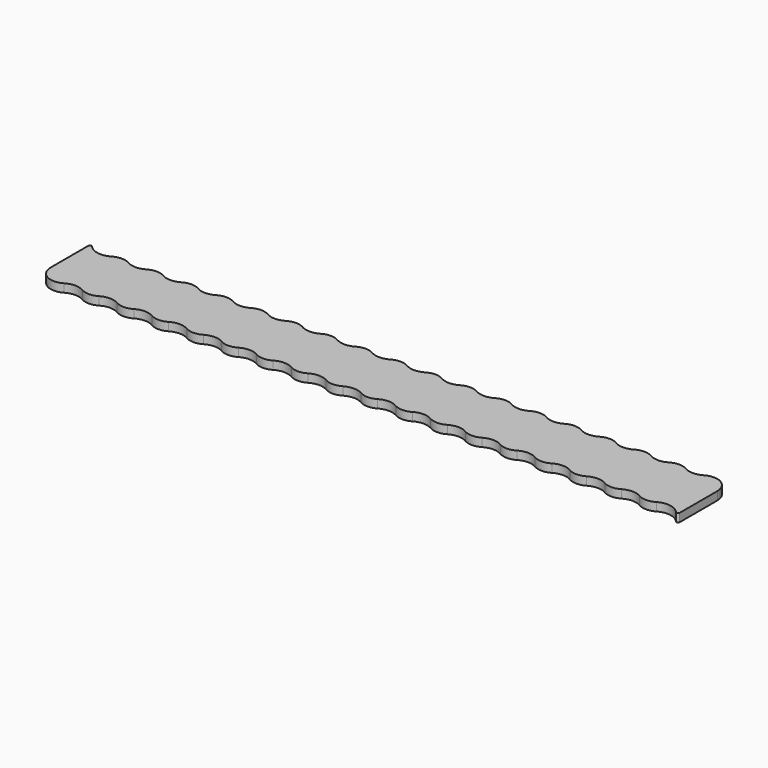
from build123d import *

# Parameters (mm, degrees)
F1_DEPTH = 5
F2_R     = 1


with BuildPart() as f1:
    # F0 (on Top) → F1 (new body)
    with BuildSketch(Plane.XY):
        with BuildLine():
            ThreePointArc((-81.970153, -8.637789), (-78.337442, -4.980607), (-77.008863, 0))
            ThreePointArc((-77.008863, 0), (-87.008863, 10), (-97.008863, 0))
            ThreePointArc((-97.008863, 0), (-91.989471, -8.671422), (-81.970153, -8.637789))
        make_face()
        with BuildLine():
            ThreePointArc((-97.008863, 0), (-87.008863, 10), (-77.008863, 0))
            ThreePointArc((-77.008863, 0), (-78.337442, -4.980607), (-81.970153, -8.637789))
            ThreePointArc((-81.970153, -8.637789), (-76.508863, -7.161334), (-71.047574, -8.637789))
            ThreePointArc((-71.047574, -8.637789), (-70.989471, 8.671422), (-56.008863, 0))
            ThreePointArc((-56.008863, 0), (-57.337442, -4.980607), (-60.970153, -8.637789))
            ThreePointArc((-60.970153, -8.637789), (-55.508863, -7.161334), (-50.047574, -8.637789))
            ThreePointArc((-50.047574, -8.637789), (-49.989471, 8.671422), (-35.008863, 0))
            ThreePointArc((-35.008863, 0), (-36.337442, -4.980607), (-39.970153, -8.637789))
            ThreePointArc((-39.970153, -8.637789), (-34.508863, -7.161334), (-29.047574, -8.637789))
            ThreePointArc((-29.047574, -8.637789), (-28.989471, 8.671422), (-14.008863, 0))
            ThreePointArc((-14.008863, 0), (-15.337442, -4.980607), (-18.970153, -8.637789))
            ThreePointArc((-18.970153, -8.637789), (-13.508863, -7.161334), (-8.047574, -8.637789))
            ThreePointArc((-8.047574, -8.637789), (-7.989471, 8.671422), (6.991137, 0))
            ThreePointArc((6.991137, 0), (5.662558, -4.980607), (2.029847, -8.637789))
            ThreePointArc((2.029847, -8.637789), (7.491137, -7.161334), (12.952426, -8.637789))
            ThreePointArc((12.952426, -8.637789), (13.010529, 8.671422), (27.991137, 0))
            ThreePointArc((27.991137, 0), (26.662558, -4.980607), (23.029847, -8.637789))
            ThreePointArc((23.029847, -8.637789), (28.491137, -7.161334), (33.952426, -8.637789))
            ThreePointArc((33.952426, -8.637789), (34.010529, 8.671422), (48.991137, 0))
            ThreePointArc((48.991137, 0), (47.662558, -4.980607), (44.029847, -8.637789))
            ThreePointArc((44.029847, -8.637789), (49.491137, -7.161334), (54.952426, -8.637789))
            ThreePointArc((54.952426, -8.637789), (55.010529, 8.671422), (69.991137, 0))
            ThreePointArc((69.991137, 0), (68.662558, -4.980607), (65.029847, -8.637789))
            ThreePointArc((65.029847, -8.637789), (70.491137, -7.161334), (75.952426, -8.637789))
            ThreePointArc((75.952426, -8.637789), (76.010529, 8.671422), (90.991137, 0))
            ThreePointArc((90.991137, 0), (89.662558, -4.980607), (86.029847, -8.637789))
            ThreePointArc((86.029847, -8.637789), (91.491137, -7.161334), (96.952426, -8.637789))
            ThreePointArc((96.952426, -8.637789), (97.010529, 8.671422), (111.991137, 0))
            ThreePointArc((111.991137, 0), (110.662558, -4.980607), (107.029847, -8.637789))
            ThreePointArc((107.029847, -8.637789), (112.491137, -7.161334), (117.952426, -8.637789))
            ThreePointArc((117.952426, -8.637789), (118.010529, 8.671422), (132.991137, 0))
            ThreePointArc((132.991137, 0), (131.662558, -4.980607), (128.029847, -8.637789))
            ThreePointArc((128.029847, -8.637789), (133.491137, -7.161334), (138.952426, -8.637789))
            ThreePointArc((138.952426, -8.637789), (139.010529, 8.671422), (153.991137, 0))
            ThreePointArc((153.991137, 0), (152.662558, -4.980607), (149.029847, -8.637789))
            ThreePointArc((149.029847, -8.637789), (154.491137, -7.161334), (159.952426, -8.637789))
            ThreePointArc((159.952426, -8.637789), (160.010529, 8.671422), (174.991137, 0))
            ThreePointArc((174.991137, 0), (173.662558, -4.980607), (170.029847, -8.637789))
            ThreePointArc((170.029847, -8.637789), (175.491137, -7.161334), (180.952426, -8.637789))
            ThreePointArc((180.952426, -8.637789), (181.010529, 8.671422), (195.991137, 0))
            ThreePointArc((195.991137, 0), (194.662558, -4.980607), (191.029847, -8.637789))
            ThreePointArc((191.029847, -8.637789), (196.491137, -7.161334), (201.952426, -8.637789))
            ThreePointArc((201.952426, -8.637789), (202.010529, 8.671422), (216.991137, 0))
            ThreePointArc((216.991137, 0), (215.662558, -4.980607), (212.029847, -8.637789))
            ThreePointArc((212.029847, -8.637789), (217.491137, -7.161334), (222.952426, -8.637789))
            ThreePointArc((222.952426, -8.637789), (223.010529, 8.671422), (237.991137, 0))
            ThreePointArc((237.991137, 0), (236.662558, -4.980607), (233.029847, -8.637789))
            ThreePointArc((233.029847, -8.637789), (238.491137, -7.161334), (243.952426, -8.637789))
            ThreePointArc((243.952426, -8.637789), (244.010529, 8.671422), (258.991137, 0))
            ThreePointArc((258.991137, 0), (257.662558, -4.980607), (254.029847, -8.637789))
            ThreePointArc((254.029847, -8.637789), (259.491137, -7.161334), (264.952426, -8.637789))
            ThreePointArc((264.952426, -8.637789), (265.010529, 8.671422), (279.991137, 0))
            ThreePointArc((279.991137, 0), (278.662558, -4.980607), (275.029847, -8.637789))
            ThreePointArc((275.029847, -8.637789), (283.935331, -7.723123), (290.491137, -13.819488))
            Line((290.491137, -13.819488), (290.491137, 18))
            ThreePointArc((290.491137, 18), (275.510529, 9.328578), (275.452426, 26.637789))
            ThreePointArc((275.452426, 26.637789), (269.991137, 25.161334), (264.529847, 26.637789))
            ThreePointArc((264.529847, 26.637789), (268.162558, 22.980607), (269.491137, 18))
            ThreePointArc((269.491137, 18), (254.510529, 9.328578), (254.452426, 26.637789))
            ThreePointArc((254.452426, 26.637789), (248.991137, 25.161334), (243.529847, 26.637789))
            ThreePointArc((243.529847, 26.637789), (247.162558, 22.980607), (248.491137, 18))
            ThreePointArc((248.491137, 18), (233.510529, 9.328578), (233.452426, 26.637789))
            ThreePointArc((233.452426, 26.637789), (227.991137, 25.161334), (222.529847, 26.637789))
            ThreePointArc((222.529847, 26.637789), (226.162558, 22.980607), (227.491137, 18))
            ThreePointArc((227.491137, 18), (212.510529, 9.328578), (212.452426, 26.637789))
            ThreePointArc((212.452426, 26.637789), (206.991137, 25.161334), (201.529847, 26.637789))
            ThreePointArc((201.529847, 26.637789), (205.162558, 22.980607), (206.491137, 18))
            ThreePointArc((206.491137, 18), (191.510529, 9.328578), (191.452426, 26.637789))
            ThreePointArc((191.452426, 26.637789), (185.991137, 25.161334), (180.529847, 26.637789))
            ThreePointArc((180.529847, 26.637789), (184.162558, 22.980607), (185.491137, 18))
            ThreePointArc((185.491137, 18), (170.510529, 9.328578), (170.452426, 26.637789))
            ThreePointArc((170.452426, 26.637789), (164.991137, 25.161334), (159.529847, 26.637789))
            ThreePointArc((159.529847, 26.637789), (163.162558, 22.980607), (164.491137, 18))
            ThreePointArc((164.491137, 18), (149.510529, 9.328578), (149.452426, 26.637789))
            ThreePointArc((149.452426, 26.637789), (143.991137, 25.161334), (138.529847, 26.637789))
            ThreePointArc((138.529847, 26.637789), (142.162558, 22.980607), (143.491137, 18))
            ThreePointArc((143.491137, 18), (128.510529, 9.328578), (128.452426, 26.637789))
            ThreePointArc((128.452426, 26.637789), (122.991137, 25.161334), (117.529847, 26.637789))
            ThreePointArc((117.529847, 26.637789), (121.162558, 22.980607), (122.491137, 18))
            ThreePointArc((122.491137, 18), (107.510529, 9.328578), (107.452426, 26.637789))
            ThreePointArc((107.452426, 26.637789), (101.991137, 25.161334), (96.529847, 26.637789))
            ThreePointArc((96.529847, 26.637789), (100.162558, 22.980607), (101.491137, 18))
            ThreePointArc((101.491137, 18), (86.510529, 9.328578), (86.452426, 26.637789))
            ThreePointArc((86.452426, 26.637789), (80.991137, 25.161334), (75.529847, 26.637789))
            ThreePointArc((75.529847, 26.637789), (79.162558, 22.980607), (80.491137, 18))
            ThreePointArc((80.491137, 18), (65.510529, 9.328578), (65.452426, 26.637789))
            ThreePointArc((65.452426, 26.637789), (59.991137, 25.161334), (54.529847, 26.637789))
            ThreePointArc((54.529847, 26.637789), (58.162558, 22.980607), (59.491137, 18))
            ThreePointArc((59.491137, 18), (44.510529, 9.328578), (44.452426, 26.637789))
            ThreePointArc((44.452426, 26.637789), (38.991137, 25.161334), (33.529847, 26.637789))
            ThreePointArc((33.529847, 26.637789), (37.162558, 22.980607), (38.491137, 18))
            ThreePointArc((38.491137, 18), (23.510529, 9.328578), (23.452426, 26.637789))
            ThreePointArc((23.452426, 26.637789), (17.991137, 25.161334), (12.529847, 26.637789))
            ThreePointArc((12.529847, 26.637789), (16.162558, 22.980607), (17.491137, 18))
            ThreePointArc((17.491137, 18), (2.510529, 9.328578), (2.452426, 26.637789))
            ThreePointArc((2.452426, 26.637789), (-3.008863, 25.161334), (-8.470153, 26.637789))
            ThreePointArc((-8.470153, 26.637789), (-4.837442, 22.980607), (-3.508863, 18))
            ThreePointArc((-3.508863, 18), (-18.489471, 9.328578), (-18.547574, 26.637789))
            ThreePointArc((-18.547574, 26.637789), (-24.008863, 25.161334), (-29.470153, 26.637789))
            ThreePointArc((-29.470153, 26.637789), (-25.837442, 22.980607), (-24.508863, 18))
            ThreePointArc((-24.508863, 18), (-39.489471, 9.328578), (-39.547574, 26.637789))
            ThreePointArc((-39.547574, 26.637789), (-45.008863, 25.161334), (-50.470153, 26.637789))
            ThreePointArc((-50.470153, 26.637789), (-46.837442, 22.980607), (-45.508863, 18))
            ThreePointArc((-45.508863, 18), (-60.489471, 9.328578), (-60.547574, 26.637789))
            ThreePointArc((-60.547574, 26.637789), (-66.008863, 25.161334), (-71.470153, 26.637789))
            ThreePointArc((-71.470153, 26.637789), (-67.837442, 22.980607), (-66.508863, 18))
            ThreePointArc((-66.508863, 18), (-81.489471, 9.328578), (-81.547574, 26.637789))
            ThreePointArc((-81.547574, 26.637789), (-90.453057, 25.723123), (-97.008863, 31.819488))
            Line((-97.008863, 31.819488), (-97.008863, 0))
        make_face()
        with BuildLine():
            ThreePointArc((-56.008863, 0), (-70.989471, 8.671422), (-71.047574, -8.637789))
            ThreePointArc((-71.047574, -8.637789), (-66.008863, -10), (-60.970153, -8.637789))
            ThreePointArc((-60.970153, -8.637789), (-57.337442, -4.980607), (-56.008863, 0))
        make_face()
        with BuildLine():
            ThreePointArc((-71.470153, 26.637789), (-76.508863, 28), (-81.547574, 26.637789))
            ThreePointArc((-81.547574, 26.637789), (-81.489471, 9.328578), (-66.508863, 18))
            ThreePointArc((-66.508863, 18), (-67.837442, 22.980607), (-71.470153, 26.637789))
        make_face()
        with BuildLine():
            ThreePointArc((-35.008863, 0), (-49.989471, 8.671422), (-50.047574, -8.637789))
            ThreePointArc((-50.047574, -8.637789), (-45.008863, -10), (-39.970153, -8.637789))
            ThreePointArc((-39.970153, -8.637789), (-36.337442, -4.980607), (-35.008863, 0))
        make_face()
        with BuildLine():
            ThreePointArc((-50.470153, 26.637789), (-55.508863, 28), (-60.547574, 26.637789))
            ThreePointArc((-60.547574, 26.637789), (-60.489471, 9.328578), (-45.508863, 18))
            ThreePointArc((-45.508863, 18), (-46.837442, 22.980607), (-50.470153, 26.637789))
        make_face()
        with BuildLine():
            ThreePointArc((-14.008863, 0), (-28.989471, 8.671422), (-29.047574, -8.637789))
            ThreePointArc((-29.047574, -8.637789), (-24.008863, -10), (-18.970153, -8.637789))
            ThreePointArc((-18.970153, -8.637789), (-15.337442, -4.980607), (-14.008863, 0))
        make_face()
        with BuildLine():
            ThreePointArc((-29.470153, 26.637789), (-34.508863, 28), (-39.547574, 26.637789))
            ThreePointArc((-39.547574, 26.637789), (-39.489471, 9.328578), (-24.508863, 18))
            ThreePointArc((-24.508863, 18), (-25.837442, 22.980607), (-29.470153, 26.637789))
        make_face()
        with BuildLine():
            ThreePointArc((6.991137, 0), (-7.989471, 8.671422), (-8.047574, -8.637789))
            ThreePointArc((-8.047574, -8.637789), (-3.008863, -10), (2.029847, -8.637789))
            ThreePointArc((2.029847, -8.637789), (5.662558, -4.980607), (6.991137, 0))
        make_face()
        with BuildLine():
            ThreePointArc((-8.470153, 26.637789), (-13.508863, 28), (-18.547574, 26.637789))
            ThreePointArc((-18.547574, 26.637789), (-18.489471, 9.328578), (-3.508863, 18))
            ThreePointArc((-3.508863, 18), (-4.837442, 22.980607), (-8.470153, 26.637789))
        make_face()
        with BuildLine():
            ThreePointArc((27.991137, 0), (13.010529, 8.671422), (12.952426, -8.637789))
            ThreePointArc((12.952426, -8.637789), (17.991137, -10), (23.029847, -8.637789))
            ThreePointArc((23.029847, -8.637789), (26.662558, -4.980607), (27.991137, 0))
        make_face()
        with BuildLine():
            ThreePointArc((12.529847, 26.637789), (7.491137, 28), (2.452426, 26.637789))
            ThreePointArc((2.452426, 26.637789), (2.510529, 9.328578), (17.491137, 18))
            ThreePointArc((17.491137, 18), (16.162558, 22.980607), (12.529847, 26.637789))
        make_face()
        with BuildLine():
            ThreePointArc((48.991137, 0), (34.010529, 8.671422), (33.952426, -8.637789))
            ThreePointArc((33.952426, -8.637789), (38.991137, -10), (44.029847, -8.637789))
            ThreePointArc((44.029847, -8.637789), (47.662558, -4.980607), (48.991137, 0))
        make_face()
        with BuildLine():
            ThreePointArc((33.529847, 26.637789), (28.491137, 28), (23.452426, 26.637789))
            ThreePointArc((23.452426, 26.637789), (23.510529, 9.328578), (38.491137, 18))
            ThreePointArc((38.491137, 18), (37.162558, 22.980607), (33.529847, 26.637789))
        make_face()
        with BuildLine():
            ThreePointArc((69.991137, 0), (55.010529, 8.671422), (54.952426, -8.637789))
            ThreePointArc((54.952426, -8.637789), (59.991137, -10), (65.029847, -8.637789))
            ThreePointArc((65.029847, -8.637789), (68.662558, -4.980607), (69.991137, 0))
        make_face()
        with BuildLine():
            ThreePointArc((54.529847, 26.637789), (49.491137, 28), (44.452426, 26.637789))
            ThreePointArc((44.452426, 26.637789), (44.510529, 9.328578), (59.491137, 18))
            ThreePointArc((59.491137, 18), (58.162558, 22.980607), (54.529847, 26.637789))
        make_face()
        with BuildLine():
            ThreePointArc((90.991137, 0), (76.010529, 8.671422), (75.952426, -8.637789))
            ThreePointArc((75.952426, -8.637789), (80.991137, -10), (86.029847, -8.637789))
            ThreePointArc((86.029847, -8.637789), (89.662558, -4.980607), (90.991137, 0))
        make_face()
        with BuildLine():
            ThreePointArc((75.529847, 26.637789), (70.491137, 28), (65.452426, 26.637789))
            ThreePointArc((65.452426, 26.637789), (65.510529, 9.328578), (80.491137, 18))
            ThreePointArc((80.491137, 18), (79.162558, 22.980607), (75.529847, 26.637789))
        make_face()
        with BuildLine():
            ThreePointArc((111.991137, 0), (97.010529, 8.671422), (96.952426, -8.637789))
            ThreePointArc((96.952426, -8.637789), (101.991137, -10), (107.029847, -8.637789))
            ThreePointArc((107.029847, -8.637789), (110.662558, -4.980607), (111.991137, 0))
        make_face()
        with BuildLine():
            ThreePointArc((96.529847, 26.637789), (91.491137, 28), (86.452426, 26.637789))
            ThreePointArc((86.452426, 26.637789), (86.510529, 9.328578), (101.491137, 18))
            ThreePointArc((101.491137, 18), (100.162558, 22.980607), (96.529847, 26.637789))
        make_face()
        with BuildLine():
            ThreePointArc((132.991137, 0), (118.010529, 8.671422), (117.952426, -8.637789))
            ThreePointArc((117.952426, -8.637789), (122.991137, -10), (128.029847, -8.637789))
            ThreePointArc((128.029847, -8.637789), (131.662558, -4.980607), (132.991137, 0))
        make_face()
        with BuildLine():
            ThreePointArc((117.529847, 26.637789), (112.491137, 28), (107.452426, 26.637789))
            ThreePointArc((107.452426, 26.637789), (107.510529, 9.328578), (122.491137, 18))
            ThreePointArc((122.491137, 18), (121.162558, 22.980607), (117.529847, 26.637789))
        make_face()
        with BuildLine():
            ThreePointArc((153.991137, 0), (139.010529, 8.671422), (138.952426, -8.637789))
            ThreePointArc((138.952426, -8.637789), (143.991137, -10), (149.029847, -8.637789))
            ThreePointArc((149.029847, -8.637789), (152.662558, -4.980607), (153.991137, 0))
        make_face()
        with BuildLine():
            ThreePointArc((138.529847, 26.637789), (133.491137, 28), (128.452426, 26.637789))
            ThreePointArc((128.452426, 26.637789), (128.510529, 9.328578), (143.491137, 18))
            ThreePointArc((143.491137, 18), (142.162558, 22.980607), (138.529847, 26.637789))
        make_face()
        with BuildLine():
            ThreePointArc((174.991137, 0), (160.010529, 8.671422), (159.952426, -8.637789))
            ThreePointArc((159.952426, -8.637789), (164.991137, -10), (170.029847, -8.637789))
            ThreePointArc((170.029847, -8.637789), (173.662558, -4.980607), (174.991137, 0))
        make_face()
        with BuildLine():
            ThreePointArc((159.529847, 26.637789), (154.491137, 28), (149.452426, 26.637789))
            ThreePointArc((149.452426, 26.637789), (149.510529, 9.328578), (164.491137, 18))
            ThreePointArc((164.491137, 18), (163.162558, 22.980607), (159.529847, 26.637789))
        make_face()
        with BuildLine():
            ThreePointArc((195.991137, 0), (181.010529, 8.671422), (180.952426, -8.637789))
            ThreePointArc((180.952426, -8.637789), (185.991137, -10), (191.029847, -8.637789))
            ThreePointArc((191.029847, -8.637789), (194.662558, -4.980607), (195.991137, 0))
        make_face()
        with BuildLine():
            ThreePointArc((180.529847, 26.637789), (175.491137, 28), (170.452426, 26.637789))
            ThreePointArc((170.452426, 26.637789), (170.510529, 9.328578), (185.491137, 18))
            ThreePointArc((185.491137, 18), (184.162558, 22.980607), (180.529847, 26.637789))
        make_face()
        with BuildLine():
            ThreePointArc((216.991137, 0), (202.010529, 8.671422), (201.952426, -8.637789))
            ThreePointArc((201.952426, -8.637789), (206.991137, -10), (212.029847, -8.637789))
            ThreePointArc((212.029847, -8.637789), (215.662558, -4.980607), (216.991137, 0))
        make_face()
        with BuildLine():
            ThreePointArc((201.529847, 26.637789), (196.491137, 28), (191.452426, 26.637789))
            ThreePointArc((191.452426, 26.637789), (191.510529, 9.328578), (206.491137, 18))
            ThreePointArc((206.491137, 18), (205.162558, 22.980607), (201.529847, 26.637789))
        make_face()
        with BuildLine():
            ThreePointArc((237.991137, 0), (223.010529, 8.671422), (222.952426, -8.637789))
            ThreePointArc((222.952426, -8.637789), (227.991137, -10), (233.029847, -8.637789))
            ThreePointArc((233.029847, -8.637789), (236.662558, -4.980607), (237.991137, 0))
        make_face()
        with BuildLine():
            ThreePointArc((222.529847, 26.637789), (217.491137, 28), (212.452426, 26.637789))
            ThreePointArc((212.452426, 26.637789), (212.510529, 9.328578), (227.491137, 18))
            ThreePointArc((227.491137, 18), (226.162558, 22.980607), (222.529847, 26.637789))
        make_face()
        with BuildLine():
            ThreePointArc((258.991137, 0), (244.010529, 8.671422), (243.952426, -8.637789))
            ThreePointArc((243.952426, -8.637789), (248.991137, -10), (254.029847, -8.637789))
            ThreePointArc((254.029847, -8.637789), (257.662558, -4.980607), (258.991137, 0))
        make_face()
        with BuildLine():
            ThreePointArc((243.529847, 26.637789), (238.491137, 28), (233.452426, 26.637789))
            ThreePointArc((233.452426, 26.637789), (233.510529, 9.328578), (248.491137, 18))
            ThreePointArc((248.491137, 18), (247.162558, 22.980607), (243.529847, 26.637789))
        make_face()
        with BuildLine():
            ThreePointArc((279.991137, 0), (265.010529, 8.671422), (264.952426, -8.637789))
            ThreePointArc((264.952426, -8.637789), (269.991137, -10), (275.029847, -8.637789))
            ThreePointArc((275.029847, -8.637789), (278.662558, -4.980607), (279.991137, 0))
        make_face()
        with BuildLine():
            ThreePointArc((264.529847, 26.637789), (259.491137, 28), (254.452426, 26.637789))
            ThreePointArc((254.452426, 26.637789), (254.510529, 9.328578), (269.491137, 18))
            ThreePointArc((269.491137, 18), (268.162558, 22.980607), (264.529847, 26.637789))
        make_face()
        with BuildLine():
            ThreePointArc((290.491137, 18), (285.471744, 26.671422), (275.452426, 26.637789))
            ThreePointArc((275.452426, 26.637789), (275.510529, 9.328578), (290.491137, 18))
        make_face()
    extrude(amount=F1_DEPTH)

    # F2
    f2_edges = [f1.edges().sort_by_distance(p)[0] for p in [
        (290.491137, -13.819488, 2.5),
        (-97.008863, 31.819488, 2.5),
    ]]
    fillet(f2_edges, radius=F2_R)


solid = f1.part
